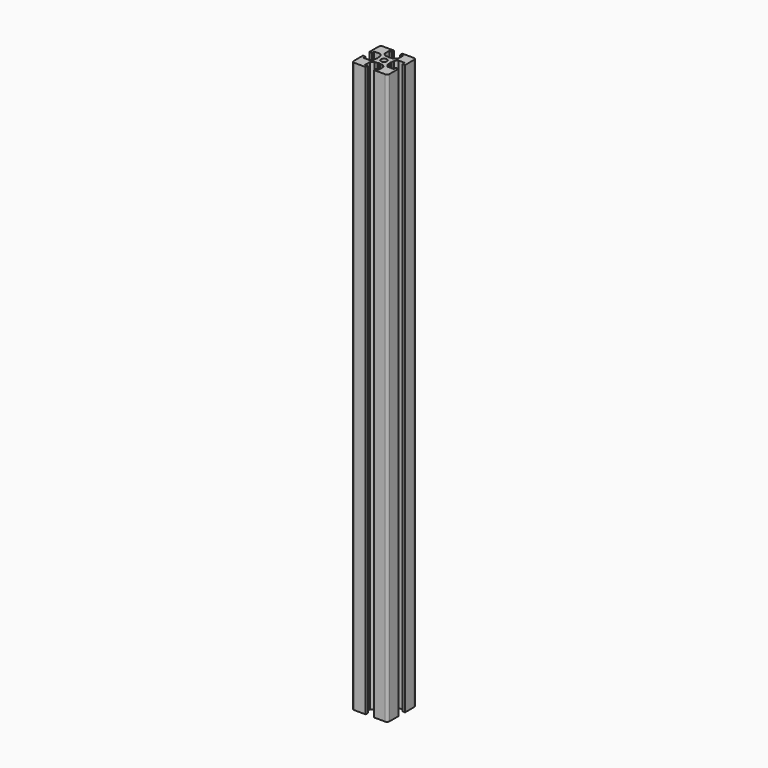
from build123d import *

# Parameters (mm, degrees)
F0_R     = 1.25
F1_DEPTH = 120


with BuildPart() as f1:
    # F0 (on Top) → F1 (new body, symmetric)
    with BuildSketch(Plane.XY):
        with BuildLine():
            Line((1.7, -7.5), (6.5, -7.5))
            ThreePointArc((6.5, -7.5), (7.207107, -7.207107), (7.5, -6.5))
            Line((7.5, -6.5), (7.5, -1.7))
            Line((7.5, -1.7), (6.4, -1.7))
            Line((6.4, -1.7), (6.4, -2.85))
            Line((6.4, -2.85), (3.8, -2.85))
            Line((3.8, -2.85), (2.8, -1.7))
            Line((2.8, -1.7), (2.8, -0.519615))
            Line((2.8, -0.519615), (2.5, 0))
            Line((2.5, 0), (2.8, 0.519615))
            Line((2.8, 0.519615), (2.8, 1.7))
            Line((2.8, 1.7), (3.8, 2.85))
            Line((3.8, 2.85), (6.4, 2.85))
            Line((6.4, 2.85), (6.4, 1.7))
            Line((6.4, 1.7), (7.5, 1.7))
            Line((7.5, 1.7), (7.5, 6.5))
            ThreePointArc((7.5, 6.5), (7.207107, 7.207107), (6.5, 7.5))
            Line((6.5, 7.5), (1.7, 7.5))
            Line((1.7, 7.5), (1.7, 6.4))
            Line((1.7, 6.4), (2.85, 6.4))
            Line((2.85, 6.4), (2.85, 3.8))
            Line((2.85, 3.8), (1.7, 2.8))
            Line((1.7, 2.8), (0.519615, 2.8))
            Line((0.519615, 2.8), (0, 2.5))
            Line((0, 2.5), (-0.519615, 2.8))
            Line((-0.519615, 2.8), (-1.7, 2.8))
            Line((-1.7, 2.8), (-2.85, 3.8))
            Line((-2.85, 3.8), (-2.85, 6.4))
            Line((-2.85, 6.4), (-1.7, 6.4))
            Line((-1.7, 6.4), (-1.7, 7.5))
            Line((-1.7, 7.5), (-6.5, 7.5))
            ThreePointArc((-6.5, 7.5), (-7.207107, 7.207107), (-7.5, 6.5))
            Line((-7.5, 6.5), (-7.5, 1.7))
            Line((-7.5, 1.7), (-6.4, 1.7))
            Line((-6.4, 1.7), (-6.4, 2.85))
            Line((-6.4, 2.85), (-3.8, 2.85))
            Line((-3.8, 2.85), (-2.8, 1.7))
            Line((-2.8, 1.7), (-2.8, 0.519615))
            Line((-2.8, 0.519615), (-2.5, 0))
            Line((-2.5, 0), (-2.8, -0.519615))
            Line((-2.8, -0.519615), (-2.8, -1.7))
            Line((-2.8, -1.7), (-3.8, -2.85))
            Line((-3.8, -2.85), (-6.4, -2.85))
            Line((-6.4, -2.85), (-6.4, -1.7))
            Line((-6.4, -1.7), (-7.5, -1.7))
            Line((-7.5, -1.7), (-7.5, -6.5))
            ThreePointArc((-7.5, -6.5), (-7.207107, -7.207107), (-6.5, -7.5))
            Line((-6.5, -7.5), (-1.7, -7.5))
            Line((-1.7, -7.5), (-1.7, -6.4))
            Line((-1.7, -6.4), (-2.85, -6.4))
            Line((-2.85, -6.4), (-2.85, -3.8))
            Line((-2.85, -3.8), (-1.7, -2.8))
            Line((-1.7, -2.8), (-0.519615, -2.8))
            Line((-0.519615, -2.8), (0, -2.5))
            Line((0, -2.5), (0.519615, -2.8))
            Line((0.519615, -2.8), (1.7, -2.8))
            Line((1.7, -2.8), (2.85, -3.8))
            Line((2.85, -3.8), (2.85, -6.4))
            Line((2.85, -6.4), (1.7, -6.4))
            Line((1.7, -6.4), (1.7, -7.5))
        make_face()
        Circle(F0_R, mode=Mode.SUBTRACT)
    extrude(amount=F1_DEPTH, both=True)


solid = f1.part
